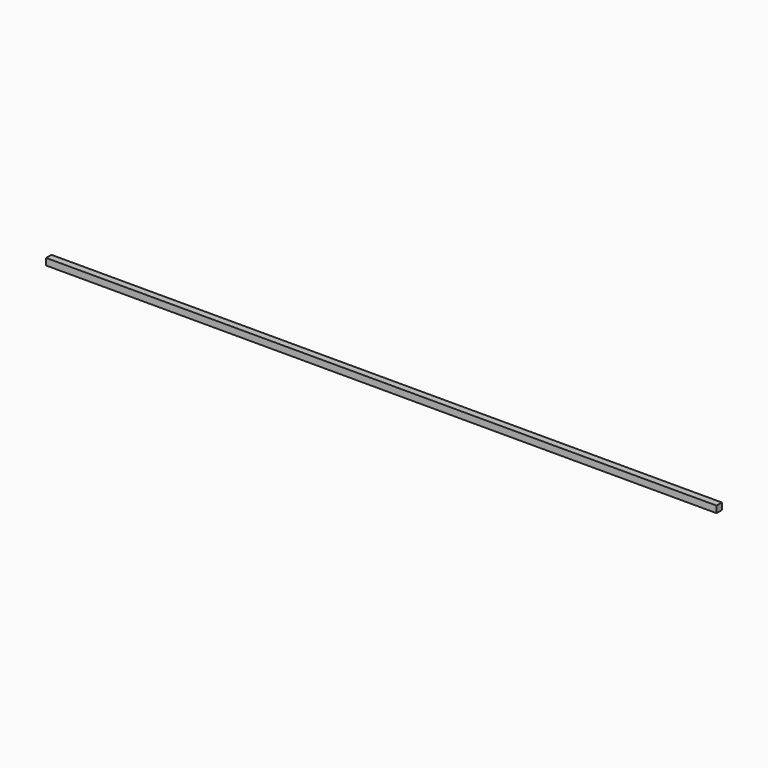
from build123d import *

# Parameters (mm, degrees)
EXTRUDE_DEPTH = 10


with BuildPart() as part:
    # Sketch → Extrude (new body)
    with BuildSketch(Plane.XZ):
        Polygon((500, 10), (1000, 10), (1000, 0), (500, 0), (0, 0), (0, 10), align=None)
    extrude(amount=EXTRUDE_DEPTH)


solid = part.part
